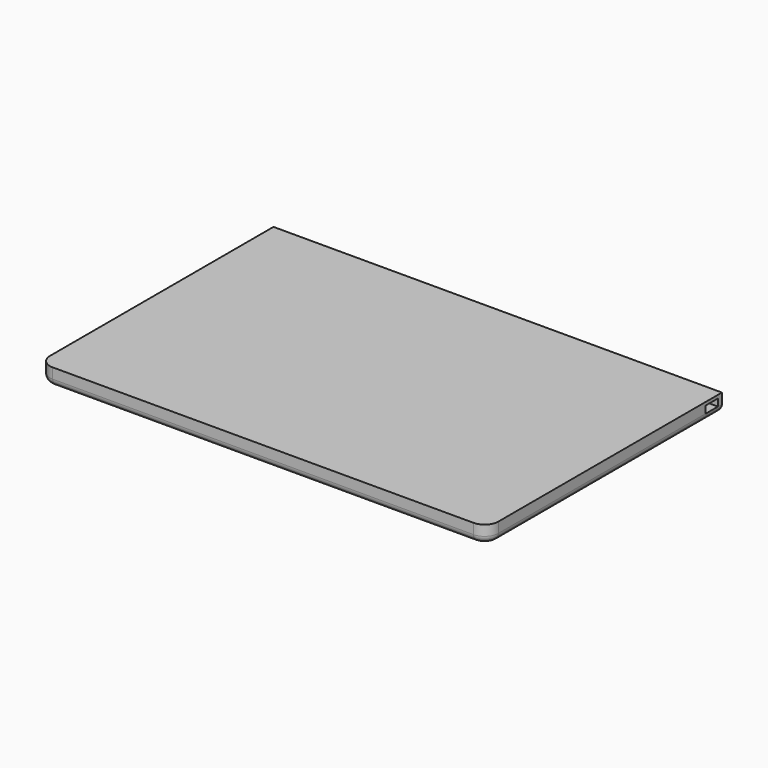
from build123d import *

# Parameters (mm, degrees)
F0_W     = 330.2
F0_H     = 215.9
F1_DEPTH = 12.7
F2_R     = 10.16
F3_R     = 10.16
F4_R     = 5.08
F5_W     = 15.24
F5_H     = 4.572
F6_DEPTH = 10.16
F7_W     = 11.379987
F7_H     = 5.284949
F8_DEPTH = 6.35


with BuildPart() as f1:
    # F0 (on Top) → F1 (new body)
    with BuildSketch(Plane.XY):
        Rectangle(F0_W, F0_H)
    extrude(amount=-F1_DEPTH)

    # F2
    f2_edges = [f1.edges().sort_by_distance(p)[0] for p in [
        (165.1, -107.95, -6.35),
    ]]
    fillet(f2_edges, radius=F2_R)

    # F3
    f3_edges = [f1.edges().sort_by_distance(p)[0] for p in [
        (-165.1, -107.95, -6.35),
    ]]
    fillet(f3_edges, radius=F3_R)

    # F4
    f4_edges = [f1.edges().sort_by_distance(p)[0] for p in [
        (0, -107.95, -12.7),
        (-162.124205, -104.974205, -12.7),
        (162.124205, -104.974205, -12.7),
        (-165.1, 5.08, -12.7),
        (165.1, 5.08, -12.7),
        (0, 107.95, -12.7),
    ]]
    fillet(f4_edges, radius=F4_R)

    # F5 (on face) → F6 (join)
    with BuildSketch(Plane.YZ.offset(165.1)):
        with Locations((97.510784, -5.334)):
            Rectangle(F5_W, F5_H)
    extrude(amount=-F6_DEPTH)

    # F7 (on face) → F8 (cut)
    with BuildSketch(Plane.YZ.offset(165.1)):
        with Locations((98.617143, -4.977525)):
            Rectangle(F7_W, F7_H)
    extrude(amount=-F8_DEPTH, mode=Mode.SUBTRACT)


solid = f1.part
